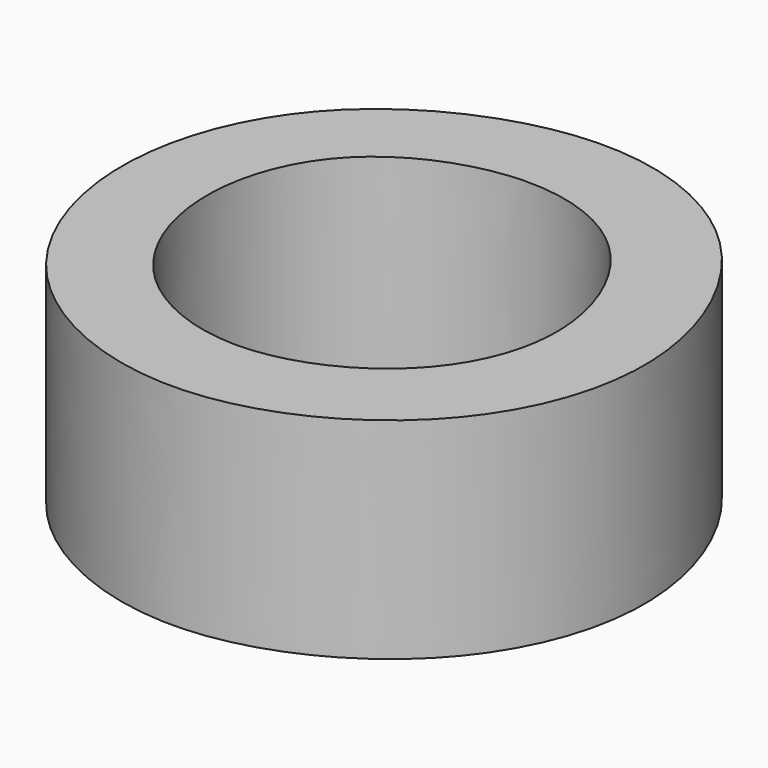
from build123d import *

# Parameters (mm, degrees)
F1_DEPTH = 25
F3_DEPTH = 25.0010001


with BuildPart() as f1:
    # F0 (on Top) → F1 (new body)
    with BuildSketch(Plane.XY):
        with BuildLine():
            add(Edge.make_bspline(
                [(0, 31.45), (8.0813079347, 31.6844103809), (23.7878346667, 25.3559317949), (34.8656697503, -0.0151383488), (25.3804355119, -23.626206878), (0.0423946056, -35.3239195715), (-25.3022470146, -24.0551231105), (-34.3556643288, -0.0095218411), (-25.7293451239, 23.6107581009), (-8.450070425, 31.2048931135), (0, 31.45)],
                knots=[0, 0, 0, 0, 0.1226064297, 0.2499705687, 0.3722325925, 0.4999319921, 0.6268592366, 0.7500545716, 0.8717988506, 1, 1, 1, 1], degree=3))
        make_face()
    extrude(amount=-F1_DEPTH)

    # F2 (on face) → F3 (cut, through all)
    with BuildSketch(Plane.XY):
        with BuildLine():
            add(Edge.make_bspline(
                [(-0.35, 21.25), (5.1548996485, 21.3617098923), (15.7847280799, 17.3667820001), (23.1343140974, -0.0393283713), (16.9982869449, -15.791659376), (-0.3197834735, -23.8300266218), (-17.1845937722, -16.5385677098), (-23.5659571207, -0.0744387772), (-18.0393982592, 16.4701927015), (-6.1125696223, 21.1330612594), (-0.35, 21.25)],
                knots=[0, 0, 0, 0, 0.1223317047, 0.2499170794, 0.3711890921, 0.4994923464, 0.6249168439, 0.7493393739, 0.8719422678, 1, 1, 1, 1], degree=3))
        make_face()
    extrude(amount=-F3_DEPTH, mode=Mode.SUBTRACT)


solid = f1.part
